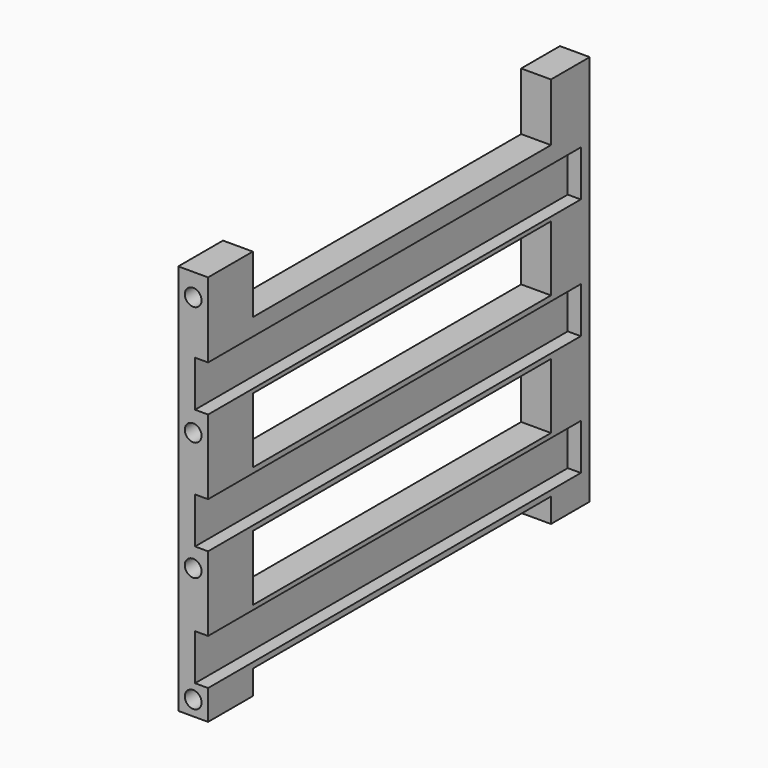
from build123d import *

# Parameters (mm, degrees)
SKETCH026_W             = 122
SKETCH026_H             = 105
PAD006_DEPTH            = 128
SKETCH027_W             = 145.939007
SKETCH027_H             = 190.762029
POCKET019_DEPTH         = 105.001
SKETCH028_W             = 17.5
SKETCH028_H             = 100
SKETCH028_W_2           = 25
SKETCH028_W_3           = 22
POCKET020_DEPTH         = 8.001
SKETCH029_W             = 98.54208
SKETCH029_H             = 3
PAD007_DEPTH            = 7
SKETCH030_R             = 2.25
POCKET021_DEPTH         = 6
SKETCH031_R             = 2.25
POCKET022_DEPTH         = 6
BODY006_PLACEMENT_ANGLE = 180


with BuildPart() as part:
    # Sketch026 → Pad006 (new body)
    with BuildSketch(Plane.XZ):
        with Locations((61, 52.5)):
            Rectangle(SKETCH026_W, SKETCH026_H)
        Polygon((8, 5), (113, 5), (113, 8), (117.5, 8), (117.5, 20.3), (113, 20.3), (113, 40.3), (117.5, 40.3), (117.5, 52.6), (113, 52.6), (113, 72.6), (117.5, 72.6), (117.5, 84.9), (113, 84.9), (113, 100), (8, 100), (8, 84.9), (4, 84.9), (4, 72.6), (8, 72.6), (8, 52.6), (4, 52.6), (4, 40.3), (8, 40.3), (8, 20.3), (4, 20.3), (4, 8), (8, 8), align=None, mode=Mode.SUBTRACT)
    extrude(amount=PAD006_DEPTH)

    # Sketch027 (on Face2 of Pad006) → Pocket019 (cut, through all)
    with BuildSketch(Plane(origin=(0, 0, 105), x_dir=(-1, 0, 0), z_dir=(0, 0, 1))):
        with Locations((-41.0304965, 71.0592985)):
            Rectangle(SKETCH027_W, SKETCH027_H)
    extrude(amount=-POCKET019_DEPTH, mode=Mode.SUBTRACT)

    # Sketch028 (on Face11 of Pocket019) → Pocket020 (cut, through all)
    with BuildSketch(Plane(origin=(114, 0, 0), x_dir=(0, 0, -1), z_dir=(-1, 0, 0))):
        with Locations((-62.75, 65)):
            Rectangle(SKETCH028_W, SKETCH028_H)
        with Locations((-30.25, 65)):
            Rectangle(SKETCH028_W, SKETCH028_H)
        with Locations((-102, 65)):
            Rectangle(SKETCH028_W_2, SKETCH028_H)
        with Locations((4.5, 65)):
            Rectangle(SKETCH028_W_3, SKETCH028_H)
    extrude(amount=-POCKET020_DEPTH, mode=Mode.SUBTRACT)

    # Sketch029 (on Face22 of Pocket020) → Pad007 (join)
    with BuildSketch(Plane(origin=(114, 0, 0), x_dir=(0, 0, -1), z_dir=(-1, 0, 0))):
        with Locations((-51.434969, 126.5)):
            Rectangle(SKETCH029_W, SKETCH029_H)
    extrude(amount=-PAD007_DEPTH)

    # Sketch030 (on Face2 of Pad007) → Pocket021 (cut)
    with BuildSketch(Plane(origin=(0, 0, 0), x_dir=(1, 0, 0), z_dir=(0, 1, 0))):
        with Locations((118, -99)):
            Circle(SKETCH030_R)
        with Locations((118, -67)):
            Circle(SKETCH030_R)
        with Locations((118, -35)):
            Circle(SKETCH030_R)
        with Locations((118, -4)):
            Circle(SKETCH030_R)
    extrude(amount=-POCKET021_DEPTH, mode=Mode.SUBTRACT)

    # Sketch031 (on Face39 of Pocket021) → Pocket022 (cut)
    with BuildSketch(Plane.XZ.offset(128)):
        with Locations((118, 99)):
            Circle(SKETCH031_R)
        with Locations((118, 4)):
            Circle(SKETCH031_R)
    extrude(amount=-POCKET022_DEPTH, mode=Mode.SUBTRACT)


with BuildPart() as part_1:
    # Body006 placement: moved
    add(part.part.moved(Location((126, 0, 0))).rotate(Axis((126, 0, 0), (0, 0, -1)), BODY006_PLACEMENT_ANGLE))


solid = part_1.part
